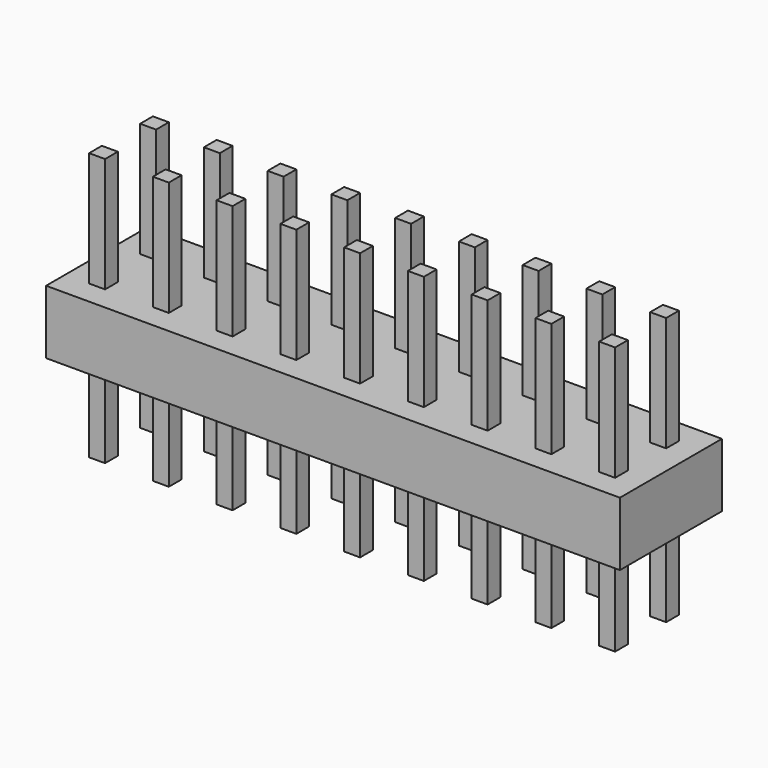
from build123d import *

# Parameters (mm, degrees)
F0_W     = 18
F0_H     = 4
F1_DEPTH = 2
F2_W     = 0.5
F2_H     = 0.5
F3_DEPTH = 3.6
F4_DEPTH = 4.8


with BuildPart() as f1:
    # F0 (on Top) → F1 (new body)
    with BuildSketch(Plane.XY):
        Rectangle(F0_W, F0_H)
    extrude(amount=F1_DEPTH)


with BuildPart() as f3:
    # F2 (on face) → F3 (new body)
    with BuildSketch(Plane.XY.offset(2)):
        with Locations((0, 1)):
            Rectangle(F2_W, F2_H)
        with Locations((0, -1)):
            Rectangle(F2_W, F2_H)
        with Locations((-2, -1)):
            Rectangle(F2_W, F2_H)
        with Locations((-2, 1)):
            Rectangle(F2_W, F2_H)
        with Locations((-4, -1)):
            Rectangle(F2_W, F2_H)
        with Locations((-4, 1)):
            Rectangle(F2_W, F2_H)
        with Locations((-6, -1)):
            Rectangle(F2_W, F2_H)
        with Locations((-6, 1)):
            Rectangle(F2_W, F2_H)
        with Locations((-8, 1)):
            Rectangle(F2_W, F2_H)
        with Locations((-8, -1)):
            Rectangle(F2_W, F2_H)
        with Locations((8, 1)):
            Rectangle(F2_W, F2_H)
        with Locations((6, -1)):
            Rectangle(F2_W, F2_H)
        with Locations((4, 1)):
            Rectangle(F2_W, F2_H)
        with Locations((4, -1)):
            Rectangle(F2_W, F2_H)
        with Locations((6, 1)):
            Rectangle(F2_W, F2_H)
        with Locations((8, -1)):
            Rectangle(F2_W, F2_H)
        with Locations((2, 1)):
            Rectangle(F2_W, F2_H)
        with Locations((2, -1)):
            Rectangle(F2_W, F2_H)
    extrude(amount=F3_DEPTH)


with BuildPart() as f4:
    # F2 (on face) → F4 (new body)
    with BuildSketch(Plane.XY.offset(2)):
        with Locations((0, 1)):
            Rectangle(F2_W, F2_H)
        with Locations((0, -1)):
            Rectangle(F2_W, F2_H)
        with Locations((-2, -1)):
            Rectangle(F2_W, F2_H)
        with Locations((-2, 1)):
            Rectangle(F2_W, F2_H)
        with Locations((-4, -1)):
            Rectangle(F2_W, F2_H)
        with Locations((-4, 1)):
            Rectangle(F2_W, F2_H)
        with Locations((-6, -1)):
            Rectangle(F2_W, F2_H)
        with Locations((-6, 1)):
            Rectangle(F2_W, F2_H)
        with Locations((-8, 1)):
            Rectangle(F2_W, F2_H)
        with Locations((-8, -1)):
            Rectangle(F2_W, F2_H)
        with Locations((8, 1)):
            Rectangle(F2_W, F2_H)
        with Locations((6, -1)):
            Rectangle(F2_W, F2_H)
        with Locations((4, 1)):
            Rectangle(F2_W, F2_H)
        with Locations((4, -1)):
            Rectangle(F2_W, F2_H)
        with Locations((6, 1)):
            Rectangle(F2_W, F2_H)
        with Locations((8, -1)):
            Rectangle(F2_W, F2_H)
        with Locations((2, 1)):
            Rectangle(F2_W, F2_H)
        with Locations((2, -1)):
            Rectangle(F2_W, F2_H)
    extrude(amount=-F4_DEPTH)


solid = Compound([f1.part, f3.part, f4.part])
